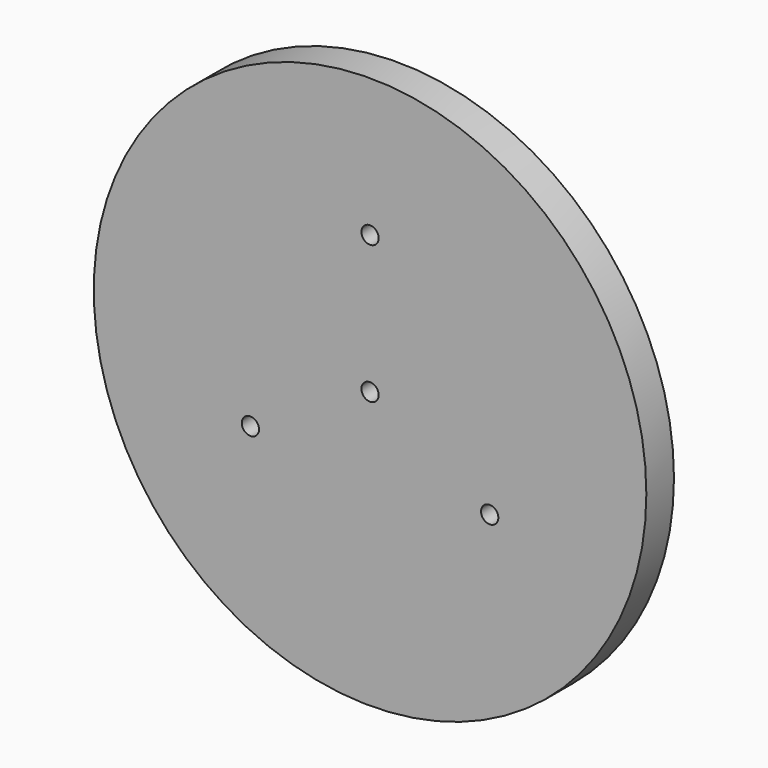
from build123d import *

# Parameters (mm, degrees)
F0_R     = 50.8
F1_DEPTH = 6.35
F2_D     = 3.175
F3_D     = 3.175


with BuildPart() as f1:
    # F0 (on Front) → F1 (new body)
    with BuildSketch(Plane.XZ):
        Circle(F0_R)
    extrude(amount=F1_DEPTH)

    # F2 (through all)
    with Locations(Plane(origin=(0, 0, 0), x_dir=(1, 0, 0), z_dir=(0, 1, 0))):
        with Locations((0, 0)):
            Hole(F2_D / 2)

    # F3 (through all)
    with Locations(Plane(origin=(0, 0, 0), x_dir=(1, 0, 0), z_dir=(0, 1, 0))):
        with Locations((0, -25.4), (21.9970452561, 12.7), (-21.9970452561, 12.7)):
            Hole(F3_D / 2)


solid = f1.part
